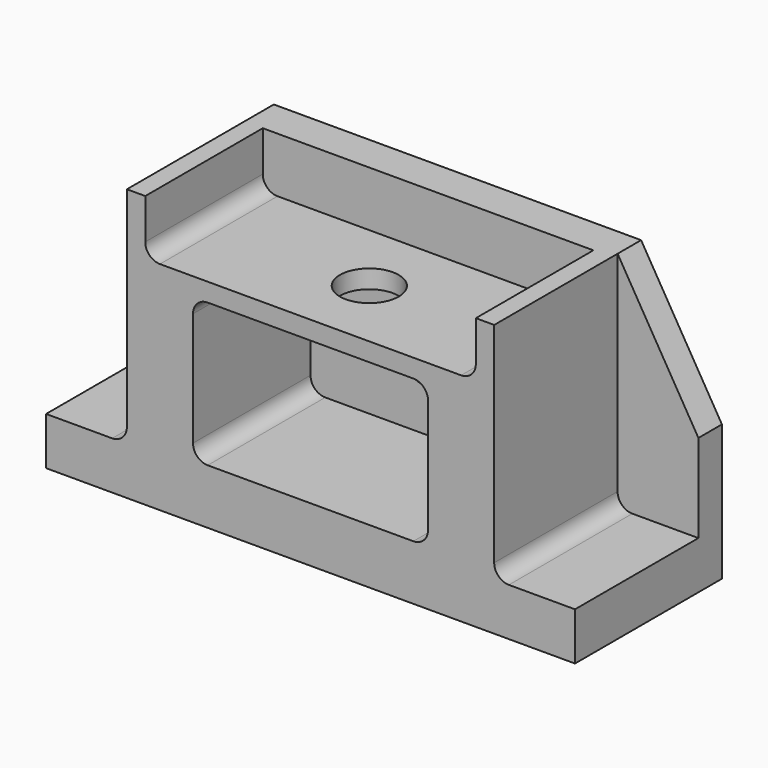
from build123d import *

# Parameters (mm, degrees)
F0_W      = 1440
F0_H      = 500
F1_DEPTH  = 130
F2_W      = 1000
F2_H      = 500
F3_DEPTH  = 610
F4_W      = 640
F4_H      = 390
F5_DEPTH  = 400
F6_R      = 80
F7_DEPTH  = 100.001
F8_W      = 900
F8_H      = 800
F9_DEPTH  = 150
F10_R     = 80
F11_DEPTH = 50
F12_R     = 40
F14_DEPTH = 80


with BuildPart() as f1:
    # F0 (on Top) → F1 (new body)
    with BuildSketch(Plane.XY):
        Rectangle(F0_W, F0_H)
    extrude(amount=F1_DEPTH)

    # F2 (on face) → F3 (join)
    with BuildSketch(Plane.XY.offset(130)):
        Rectangle(F2_W, F2_H)
    extrude(amount=F3_DEPTH)

    # F4 (on face) → F5 (cut)
    with BuildSketch(Plane.XZ.offset(250)):
        with Locations((0, 345)):
            Rectangle(F4_W, F4_H)
    extrude(amount=-F5_DEPTH, mode=Mode.SUBTRACT)

    # F6 (on face) → F7 (cut, through all)
    with BuildSketch(Plane.XZ.offset(-150)):
        with Locations((0, 345)):
            Circle(F6_R)
    extrude(amount=-F7_DEPTH, mode=Mode.SUBTRACT)

    # F8 (on face) → F9 (cut)
    with BuildSketch(Plane.XY.offset(740)):
        with Locations((0, -250)):
            Rectangle(F8_W, F8_H)
    extrude(amount=-F9_DEPTH, mode=Mode.SUBTRACT)

    # F10 (on face) → F11 (cut, through all)
    with BuildSketch(Plane.XY.offset(590)):
        with Locations((0, -50)):
            Circle(F10_R)
    extrude(amount=-F11_DEPTH, mode=Mode.SUBTRACT)

    # F12
    f12_edges = [f1.edges().sort_by_distance(p)[0] for p in [
        (450, -50, 590),
        (-450, -50, 590),
        (500, 0, 130),
        (-500, 0, 130),
        (-320, -50, 540),
        (-320, -50, 150),
        (320, -50, 540),
        (320, -50, 150),
    ]]
    fillet(f12_edges, radius=F12_R)

    # F13 (on face) → F14 (join)
    with BuildSketch(Plane(origin=(0, 250, 0), x_dir=(-1, 0, 0), z_dir=(0, 1, 0))):
        with BuildLine():
            Line((720, 370), (500, 740))
            Line((500, 740), (500, 170))
            ThreePointArc((500, 170), (511.7157287525, 141.7157287525), (540, 130))
            Line((540, 130), (720, 130))
            Line((720, 130), (720, 370))
        make_face()
        with BuildLine():
            Line((-720, 370), (-720, 130))
            Line((-720, 130), (-540, 130))
            ThreePointArc((-540, 130), (-511.7157287525, 141.7157287525), (-500, 170))
            Line((-500, 170), (-500, 740))
            Line((-500, 740), (-720, 370))
        make_face()
    extrude(amount=-F14_DEPTH)


solid = f1.part
